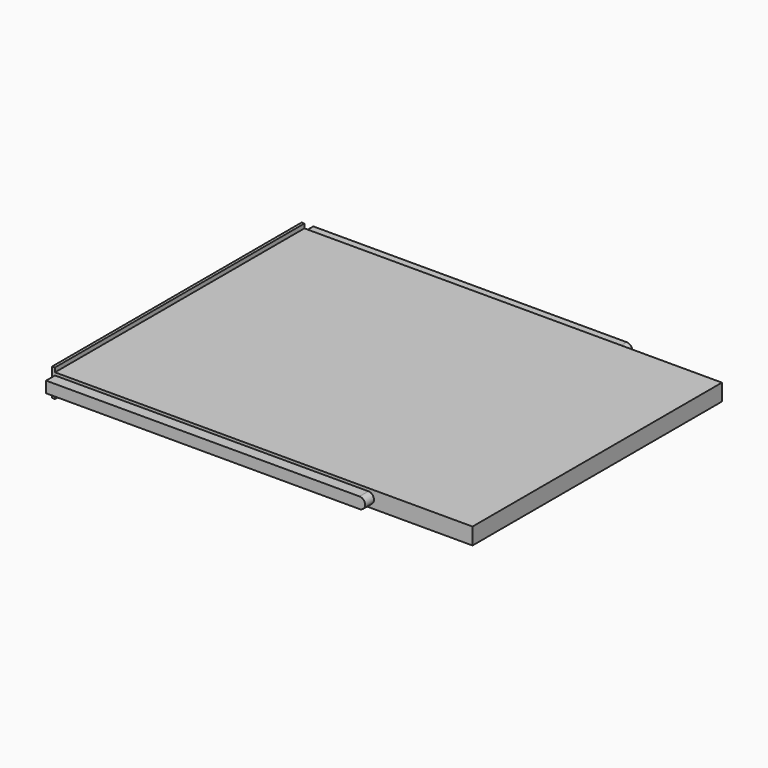
from build123d import *

# Parameters (mm, degrees)
F0_W     = 750
F0_H     = 560
F1_DEPTH = 30
F4_DEPTH = 20
F5_DEPTH = 20
F6_W     = 560
F6_H     = 50
F7_DEPTH = 5


with BuildPart() as f1:
    # F0 (on Top) → F1 (new body)
    with BuildSketch(Plane.XY):
        Rectangle(F0_W, F0_H)
    extrude(amount=F1_DEPTH)

    # F3 (on face) → F4 (join)
    with BuildSketch(Plane(origin=(0, 280, 0), x_dir=(-1, 0, 0), z_dir=(0, 1, 0))):
        with BuildLine():
            Line((-188, 5), (375, 5))
            Line((375, 5), (375, 25))
            Line((375, 25), (-188, 25))
            ThreePointArc((-188, 25), (-198, 15), (-188, 5))
        make_face()
    extrude(amount=F4_DEPTH)

    # F2 (on face) → F5 (join)
    with BuildSketch(Plane.XZ.offset(280)):
        with BuildLine():
            Line((-375, 25), (-375, 5))
            Line((-375, 5), (188, 5))
            ThreePointArc((188, 5), (198, 15), (188, 25))
            Line((188, 25), (-375, 25))
        make_face()
    extrude(amount=F5_DEPTH)

    # F6 (on face) → F7 (join)
    with BuildSketch(Plane(origin=(-375, 0, 0), x_dir=(0, -1, 0), z_dir=(-1, 0, 0))):
        with Locations((0, 12.686171)):
            Rectangle(F6_W, F6_H)
    extrude(amount=F7_DEPTH)


solid = f1.part
